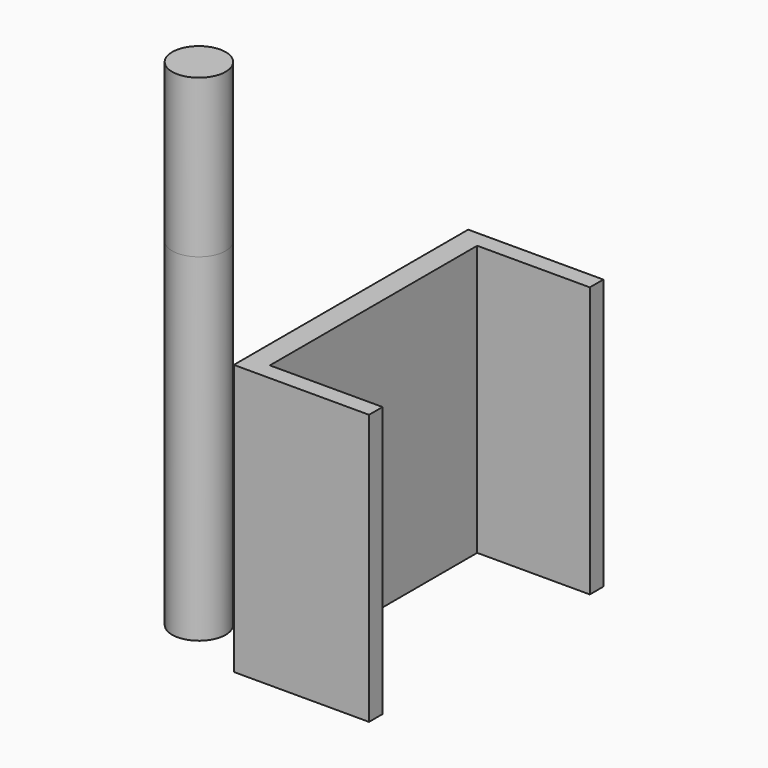
from build123d import *

# Parameters (mm, degrees)
F1_W          = 165.1
F1_H          = 152.4
F2_DEPTH      = 12.7
F2_DEPTH_BACK = 63.5
F3_R          = 15.08125
F4_DEPTH      = 190.5
F4_DEPTH_BACK = 88.9
F5_W          = 63.5
F5_H          = 146.05
F6_DEPTH      = 190.501


with BuildPart() as f2:
    # F1 (on offset) → F2 (new body, two sides)
    with BuildSketch(Plane.YZ.offset(254)) as f2_sk:
        Rectangle(F1_W, F1_H)
    extrude(amount=-F2_DEPTH)
    extrude(f2_sk.sketch, amount=F2_DEPTH_BACK)

    # F5 (on face) → F6 (cut, through all)
    with BuildSketch(Plane.XY.offset(76.2)):
        with Locations((285.75, 0)):
            Rectangle(F5_W, F5_H)
    extrude(amount=-F6_DEPTH, mode=Mode.SUBTRACT)


with BuildPart() as f4:
    # F3 (on face) → F4 (new body, two sides)
    with BuildSketch(Plane.XY.offset(76.2)) as f4_sk:
        with Locations((155.575, 0)):
            Circle(F3_R)
    extrude(amount=-F4_DEPTH)
    extrude(f4_sk.sketch, amount=F4_DEPTH_BACK)


solid = Compound([f2.part, f4.part])
